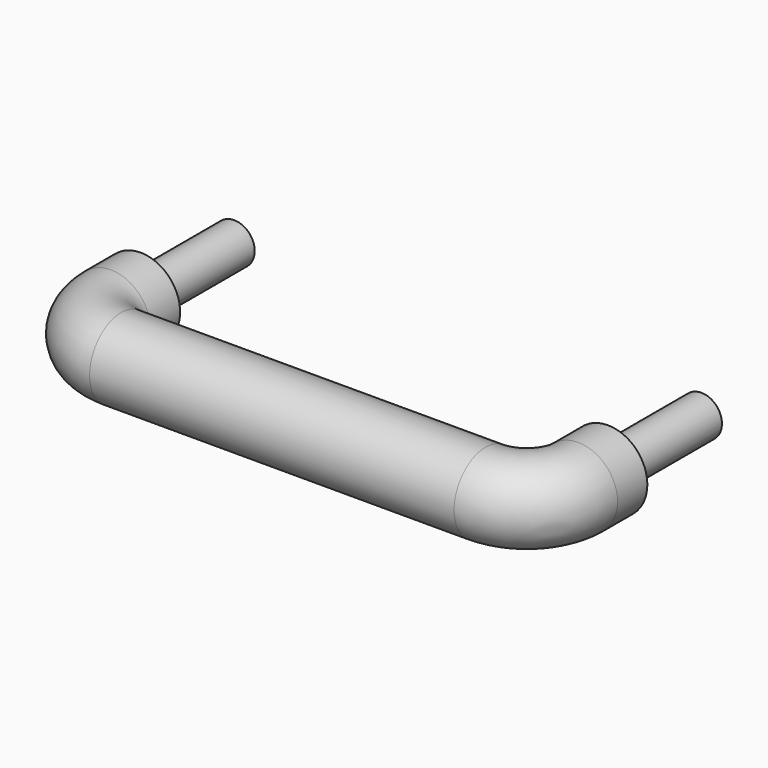
from build123d import *

# Parameters (mm, degrees)
F2_R   = 12.192
F2_R_2 = 6.35


with BuildPart() as f3:
    # F3: sweep along a path in F0
    with BuildLine(Plane.XY) as f3_path:
        Line((72.1868, 27.3812), (72.1868, 15.875))
        ThreePointArc((72.1868, 15.875), (67.5371201513, 4.6496798487), (56.3118, 0))
        Line((56.3118, 0), (-56.3118, 0))
        ThreePointArc((-56.3118, 0), (-67.5371201513, 4.6496798487), (-72.1868, 15.875))
        Line((-72.1868, 15.875), (-72.1868, 27.3812))
    # F2 (on line) → F3 (sweep)
    with BuildSketch(Plane.XZ.offset(-27.3812)):
        with Locations((72.1868, 0)):
            Circle(F2_R)
    sweep(path=f3_path.line)

    # F4: sweep along a path in F0
    with BuildLine(Plane.XY) as f4_path:
        Line((-72.1868, 63.5), (-72.1868, 27.3812))
        Line((-72.1868, 27.3812), (-72.1868, 15.875))
        ThreePointArc((-72.1868, 15.875), (-67.5371201513, 4.6496798487), (-56.3118, 0))
        Line((-56.3118, 0), (56.3118, 0))
        ThreePointArc((56.3118, 0), (67.5371201513, 4.6496798487), (72.1868, 15.875))
        Line((72.1868, 15.875), (72.1868, 27.3812))
        Line((72.1868, 27.3812), (72.1868, 63.5))
    # F2 (on line) → F4 (sweep)
    with BuildSketch(Plane.XZ.offset(-27.3812)):
        with Locations((-72.1868, 0)):
            Circle(F2_R_2)
    sweep(path=f4_path.line)


solid = f3.part
